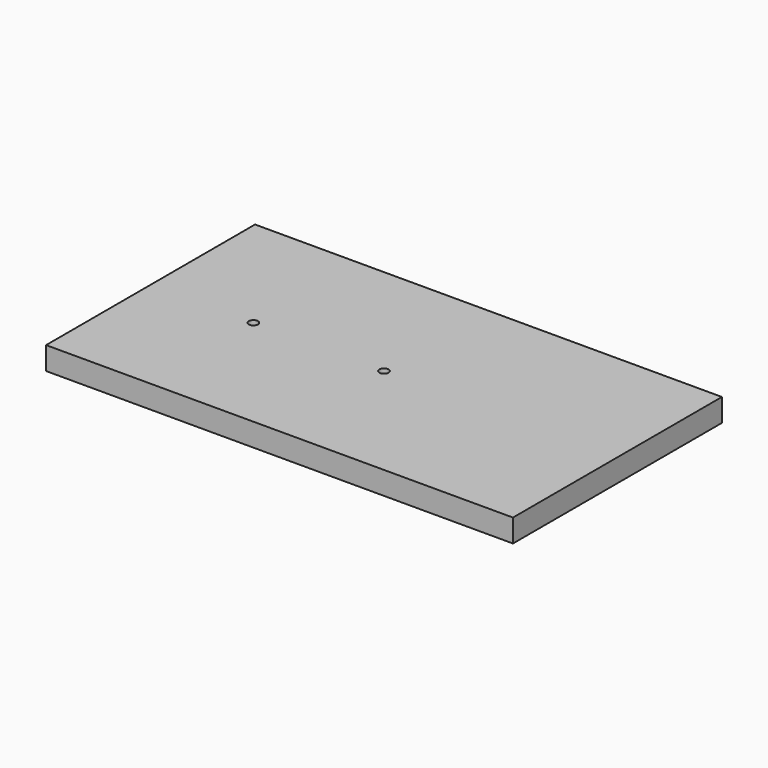
from build123d import *

# Parameters (mm, degrees)
F0_W     = 204.3
F0_H     = 114.3
F0_R     = 14
F1_DEPTH = 10
F2_DEPTH = 1.5
F4_D     = 4


with BuildPart() as f1:
    # F0 (on Top) → F1 (new body)
    with BuildSketch(Plane.XY):
        Rectangle(F0_W, F0_H)
        with Locations((-57.15, 0)):
            Circle(F0_R, mode=Mode.SUBTRACT)
        Circle(F0_R, mode=Mode.SUBTRACT)
        with Locations((-57.15, 0)):
            Circle(F0_R)
        Circle(F0_R)
    extrude(amount=F1_DEPTH)

    # F0 (on Top) → F2 (join)
    with BuildSketch(Plane.XY):
        with Locations((-57.15, 0)):
            Circle(F0_R)
        Circle(F0_R)
    extrude(amount=-F2_DEPTH)

    # F4 (through all)
    with Locations(Plane(origin=(0, 0, -1.5), x_dir=(1, 0, 0), z_dir=(0, 0, -1))):
        with Locations((-57.15, 0), (0, 0)):
            Hole(F4_D / 2)


solid = f1.part
